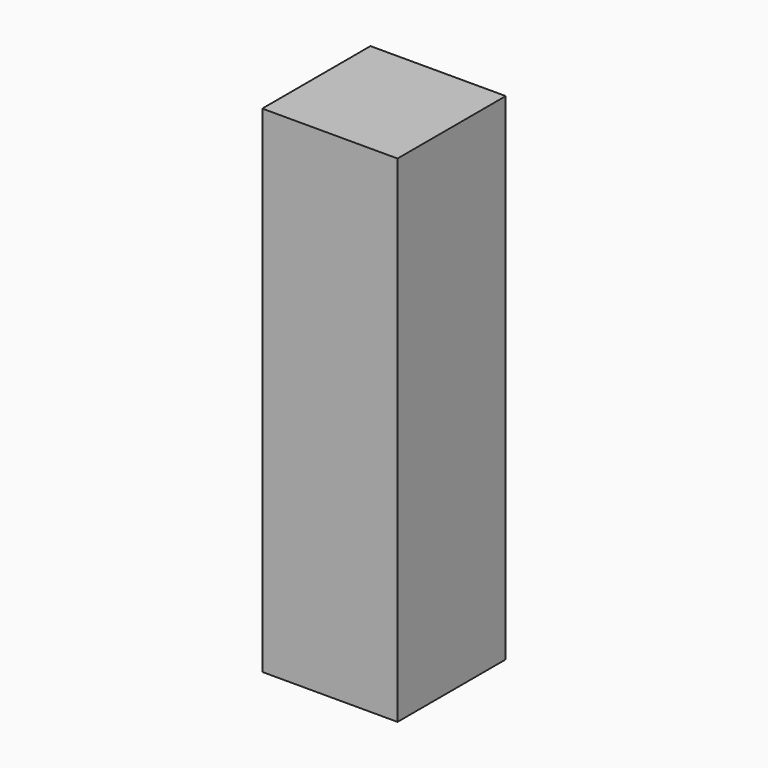
from build123d import *

# Parameters (mm, degrees)
F0_W     = 40.8606864512
F0_H     = 43.7535122037
F1_DEPTH = 600
F2_DEPTH = 600
F3_DEPTH = 2200
F4_T     = -18


with BuildPart() as f1:
    # F0 (on Right) → F1 (new body)
    with BuildSketch(Plane.YZ):
        with Locations((-20.4303432256, 21.8767561018)):
            Rectangle(F0_W, F0_H)
    extrude(amount=F1_DEPTH)

    # F2 (add): a face of the model
    f2_faces = [f1.faces().sort_by_distance(p)[0] for p in [
        (300, 0, 21.8767561018),
    ]]
    extrude(f2_faces, amount=-F2_DEPTH)

    # F3 (add): a face of the model
    f3_faces = [f1.faces().sort_by_distance(p)[0] for p in [
        (300, -300, 0),
    ]]
    extrude(f3_faces, amount=-F3_DEPTH)

    # F4
    f4_openings = [f1.faces().sort_by_distance(p)[0] for p in [
        (0, -300, 1100),
    ]]
    offset(amount=F4_T, openings=f4_openings)


solid = f1.part
